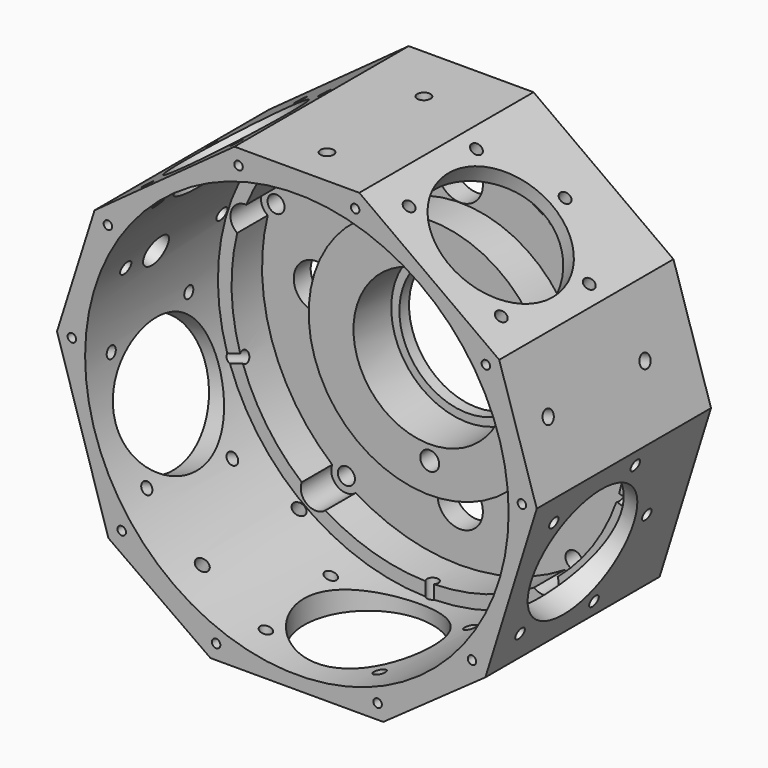
from build123d import *

# Parameters (mm, degrees)
F1_DEPTH  = 47.2948
F2_R      = 44.45
F3_DEPTH  = 34.8488
F4_R      = 25.4
F5_DEPTH  = 8.001
F6_R      = 1.7907
F7_DEPTH  = 25.4
F8_R      = 15.997555
F9_DEPTH  = 9.906
F10_R     = 14.2875
F11_DEPTH = 25.4
F13_DEPTH = 25.4
F14_R     = 4.7625
F15_DEPTH = 25.4
F16_R     = 13.5001
F16_R_2   = 1.190625
F17_DEPTH = 13.37323
F18_R     = 13.5001
F18_R_2   = 1.190625
F19_DEPTH = 7.62
F20_R     = 13.5001
F20_R_2   = 1.190625
F21_DEPTH = 7.62
F22_R     = 13.5001
F22_R_2   = 1.190625
F23_DEPTH = 7.62
F24_R     = 13.5001
F24_R_2   = 1.190625
F25_DEPTH = 7.62
F26_R     = 1.3890625
F26_R_2   = 3.175
F27_DEPTH = 7.62
F28_R     = 1.3890625
F29_DEPTH = 7.62
F30_R     = 1.3890625
F31_DEPTH = 7.62
F32_R     = 1.3890625
F33_DEPTH = 7.62
F34_R     = 1.3890625
F35_DEPTH = 7.62
F37_R     = 57.8679272596
F37_R_2   = 45.72
F38_DEPTH = 1.5748
F36_R     = 0.889
F39_DEPTH = 6.35


with BuildPart() as f1:
    # F0 (on Front) → F1 (new body)
    with BuildSketch(Plane.XZ):
        Polygon((13.1013757639, 48.895), (0, 48.895), (-13.1013757639, 48.895), (-42.4725074364, 27.5819688313), (-50.3486892657, 2.6386629942), (-39.5660388124, -32.039946487), (-18.1352724712, -47.244), (0, -47.244), (18.1352724712, -47.244), (39.5660388124, -32.039946487), (50.3486892657, 2.6386629942), (42.4725074364, 27.5819688313), align=None)
    extrude(amount=F1_DEPTH)

    # F2 (on face) → F3 (cut)
    with BuildSketch(Plane.XZ.offset(47.2948)):
        Circle(F2_R)
    extrude(amount=-F3_DEPTH, mode=Mode.SUBTRACT)

    # F4 (on face) → F5 (cut)
    with BuildSketch(Plane.XZ.offset(12.446)):
        with BuildLine():
            ThreePointArc((38.5032813183, 15.7300153839), (24.447458106, 33.6490393385), (3.0619653657, 41.4796386719))
            ThreePointArc((3.0619653657, 41.4796386719), (0, 43.815), (-3.0619653657, 41.4796386719))
            ThreePointArc((-3.0619653657, 41.4796386719), (-24.447458106, 33.6490393385), (-38.5032813183, 15.7300153839))
            ThreePointArc((-38.5032813183, 15.7300153839), (-41.6705412615, 13.5395796085), (-40.3956799866, 9.9058111564))
            ThreePointArc((-40.3956799866, 9.9058111564), (-39.556818154, -12.8527893385), (-26.8583018988, -31.7579545211))
            ThreePointArc((-26.8583018988, -31.7579545211), (-25.7538108292, -35.4470796085), (-21.9039378647, -35.3575106911))
            ThreePointArc((-21.9039378647, -35.3575106911), (0, -41.5925), (21.9039378647, -35.3575106911))
            ThreePointArc((21.9039378647, -35.3575106911), (25.7538108292, -35.4470796085), (26.8583018988, -31.7579545211))
            ThreePointArc((26.8583018988, -31.7579545211), (39.556818154, -12.8527893385), (40.3956799866, 9.9058111564))
            ThreePointArc((40.3956799866, 9.9058111564), (41.6705412615, 13.5395796085), (38.5032813183, 15.7300153839))
        make_face()
        Circle(F4_R, mode=Mode.SUBTRACT)
    extrude(amount=-F5_DEPTH, mode=Mode.SUBTRACT)

    # F6 (on face) → F7 (cut)
    with BuildSketch(Plane.XZ.offset(4.445)):
        with Locations((0, 40.64)):
            Circle(F6_R)
        with Locations((-38.6509368222, 12.5584506514)):
            Circle(F6_R)
        with Locations((-23.8875926532, -32.8784506514)):
            Circle(F6_R)
        with Locations((23.8875926532, -32.8784506514)):
            Circle(F6_R)
        with Locations((38.6509368222, 12.5584506514)):
            Circle(F6_R)
    extrude(amount=-F7_DEPTH, mode=Mode.SUBTRACT)

    # F8 (on face) → F9 (cut)
    with BuildSketch(Plane.XZ.offset(12.446)):
        Circle(F8_R)
    extrude(amount=-F9_DEPTH, mode=Mode.SUBTRACT)

    # F10 (on face) → F11 (cut)
    with BuildSketch(Plane.XZ.offset(2.54)):
        Circle(F10_R)
    extrude(amount=-F11_DEPTH, mode=Mode.SUBTRACT)

    # F12 (on face) → F13 (cut)
    with BuildSketch(Plane.XZ.offset(12.446)):
        with BuildLine():
            ThreePointArc((0, -17.065625), (-1.4031650189, -20.4531650189), (1.984375, -19.05))
            ThreePointArc((1.984375, -19.05), (1.4031650189, -17.6468349811), (0, -17.065625))
        make_face()
    extrude(amount=-F13_DEPTH, mode=Mode.SUBTRACT)

    # F14 (on face) → F15 (cut)
    with BuildSketch(Plane.XZ.offset(4.445)):
        with Locations((0, 30.1752)):
            Circle(F14_R)
        with Locations((-30.1752, 0)):
            Circle(F14_R)
        with Locations((0, -30.1752)):
            Circle(F14_R)
        with Locations((30.1752, 0)):
            Circle(F14_R)
    extrude(amount=-F15_DEPTH, mode=Mode.SUBTRACT)

    # F16 (on face) → F17 (cut)
    with BuildSketch(Plane(origin=(0, 0, -47.244), x_dir=(1, 0, 0), z_dir=(0, 0, -1))):
        with Locations((0, 28.5496)):
            Circle(F16_R)
        with Locations((-14.6280350953, 20.1041)):
            Circle(F16_R_2)
        with Locations((-11.943740641, 40.493340641)):
            Circle(F16_R_2)
        with Locations((14.6280350953, 20.1041)):
            Circle(F16_R_2)
        with Locations((11.943740641, 40.493340641)):
            Circle(F16_R_2)
        with Locations((0, 11.6586)):
            Circle(F16_R_2)
    extrude(amount=-F17_DEPTH, mode=Mode.SUBTRACT)

    # F18 (on face) → F19 (cut)
    with BuildSketch(Plane(origin=(-45.1620685452, 0, -14.0422815722), x_dir=(0, -1, 0), z_dir=(-0.9549055825, 0, -0.2969096301))):
        with Locations((28.5496, -0.6894505448)):
            Circle(F18_R)
        with Locations((40.493340641, 11.2542900962)):
            Circle(F18_R_2)
        with Locations((20.1041, 13.9385845505)):
            Circle(F18_R_2)
        with Locations((40.493340641, -12.6331911859)):
            Circle(F18_R_2)
        with Locations((20.1041, -15.3174856402)):
            Circle(F18_R_2)
        with Locations((11.6586, -0.6894505448)):
            Circle(F18_R_2)
    extrude(amount=-F19_DEPTH, mode=Mode.SUBTRACT)

    # F20 (on face) → F21 (cut)
    with BuildSketch(Plane(origin=(-27.7611612291, 0, 38.2571918273), x_dir=(0.8093620766, 0, 0.587309994), z_dir=(-0.587309994, 0, 0.8093620766))):
        with Locations((0, -28.5496)):
            Circle(F20_R)
        with Locations((14.6280350953, -20.1041)):
            Circle(F20_R_2)
        with Locations((11.943740641, -40.493340641)):
            Circle(F20_R_2)
        with Locations((-8.4455, -43.1776350953)):
            Circle(F20_R_2)
        with Locations((-14.6280350953, -20.1041)):
            Circle(F20_R_2)
        with Locations((0, -11.6586)):
            Circle(F20_R_2)
    extrude(amount=-F21_DEPTH, mode=Mode.SUBTRACT)

    # F22 (on face) → F23 (cut)
    with BuildSketch(Plane(origin=(45.1620685452, 0, -14.0422815722), x_dir=(0, 1, 0), z_dir=(0.9549055825, 0, -0.2969096301))):
        with Locations((-28.5496, -0.7030958177)):
            Circle(F22_R)
        with Locations((-40.493340641, -12.6468364587)):
            Circle(F22_R_2)
        with Locations((-20.1041, -15.331130913)):
            Circle(F22_R_2)
        with Locations((-40.493340641, 11.2406448233)):
            Circle(F22_R_2)
        with Locations((-20.1041, 13.9249392776)):
            Circle(F22_R_2)
        with Locations((-11.6586, -0.7030958177)):
            Circle(F22_R_2)
    extrude(amount=-F23_DEPTH, mode=Mode.SUBTRACT)

    # F24 (on face) → F25 (cut)
    with BuildSketch(Plane(origin=(27.7611612291, 0, 38.2571918273), x_dir=(0.8093620766, 0, -0.587309994), z_dir=(0.587309994, 0, 0.8093620766))):
        with Locations((0.0319808688, -28.5496)):
            Circle(F24_R)
        with Locations((11.9757215098, -40.493340641)):
            Circle(F24_R_2)
        with Locations((14.6600159641, -20.1041)):
            Circle(F24_R_2)
        with Locations((-11.9117597722, -40.493340641)):
            Circle(F24_R_2)
        with Locations((-14.5960542265, -20.1041)):
            Circle(F24_R_2)
        with Locations((0.0319808688, -11.6586)):
            Circle(F24_R_2)
    extrude(amount=-F25_DEPTH, mode=Mode.SUBTRACT)

    # F26 (on face) → F27 (cut)
    with BuildSketch(Plane(origin=(-46.5414023007, 0, 14.6960691379), x_dir=(0, -1, 0), z_dir=(-0.953589818, 0, 0.3011087162))):
        with Locations((13.9728007449, 0)):
            Circle(F26_R)
        with Locations((31.4452, 0.4320424526)):
            Circle(F26_R_2)
        with Locations((39.37, 0.4320424526)):
            Circle(F26_R)
    extrude(amount=-F27_DEPTH, mode=Mode.SUBTRACT)

    # F28 (on face) → F29 (cut)
    with BuildSketch(Plane.XY.offset(48.895)):
        with Locations((-0.0050242361, -13.97)):
            Circle(F28_R)
        with Locations((-0.0050242361, -39.37)):
            Circle(F28_R)
    extrude(amount=-F29_DEPTH, mode=Mode.SUBTRACT)

    # F30 (on face) → F31 (cut)
    with BuildSketch(Plane(origin=(46.5414023007, 0, 14.6960691379), x_dir=(0, 1, 0), z_dir=(0.953589818, 0, 0.3011087162))):
        with Locations((-13.97, 0.4367729795)):
            Circle(F30_R)
        with Locations((-39.37, 0.4367729795)):
            Circle(F30_R)
    extrude(amount=-F31_DEPTH, mode=Mode.SUBTRACT)

    # F32 (on face) → F33 (cut)
    with BuildSketch(Plane(origin=(28.3672821995, 0, -39.9849024494), x_dir=(0.8155947437, 0, 0.5786235513), z_dir=(0.5786235513, 0, -0.8155947437))):
        with Locations((0.5863418446, 13.97)):
            Circle(F32_R)
        with Locations((0.5863418446, 39.37)):
            Circle(F32_R)
    extrude(amount=-F33_DEPTH, mode=Mode.SUBTRACT)

    # F34 (on face) → F35 (cut)
    with BuildSketch(Plane(origin=(-28.3672821995, 0, -39.9849024494), x_dir=(0.8155947437, 0, -0.5786235513), z_dir=(-0.5786235513, 0, -0.8155947437))):
        with Locations((-0.5989856629, 13.97)):
            Circle(F34_R)
        with Locations((-0.5989856629, 39.37)):
            Circle(F34_R)
    extrude(amount=-F35_DEPTH, mode=Mode.SUBTRACT)

    # F37 (on face) → F38 (cut)
    with BuildSketch(Plane(origin=(0, 0, 0), x_dir=(-1, 0, 0), z_dir=(0, 1, 0))):
        Circle(F37_R)
        Polygon((-39.5660388124, -32.039946487), (-50.3486892657, 2.6386629942), (-42.4725074364, 27.5819688313), (-13.1013757639, 48.895), (13.1013757639, 48.895), (42.4725074364, 27.5819688313), (50.3486892657, 2.6386629942), (39.5660388124, -32.039946487), (18.1352724712, -47.244), (-18.1352724712, -47.244), align=None, mode=Mode.SUBTRACT)
        Polygon((-42.4725074364, 27.5819688313), (-50.3486892657, 2.6386629942), (-39.5660388124, -32.039946487), (-18.1352724712, -47.244), (18.1352724712, -47.244), (39.5660388124, -32.039946487), (50.3486892657, 2.6386629942), (42.4725074364, 27.5819688313), (13.1013757639, 48.895), (-13.1013757639, 48.895), align=None)
        Circle(F37_R_2, mode=Mode.SUBTRACT)
    extrude(amount=-F38_DEPTH, mode=Mode.SUBTRACT)

    # F36 (on face) → F39 (cut)
    with BuildSketch(Plane.XZ.offset(47.2948)):
        with Locations((-12.2407949743, 45.6832687692)):
            Circle(F36_R)
        with Locations((-39.6647567769, 25.7585942332)):
            Circle(F36_R)
        with Locations((-47.2299841203, 2.4752185833)):
            Circle(F36_R)
        with Locations((-36.7549628179, -29.7635820306)):
            Circle(F36_R)
        with Locations((-16.9489405002, -44.1534995551)):
            Circle(F36_R)
        with Locations((47.2299841203, 2.4752185833)):
            Circle(F36_R)
        with Locations((36.7549628179, -29.7635820306)):
            Circle(F36_R)
        with Locations((16.9489405002, -44.1534995551)):
            Circle(F36_R)
        with Locations((39.6647567769, 25.7585942332)):
            Circle(F36_R)
        with Locations((12.2407949743, 45.6832687692)):
            Circle(F36_R)
    extrude(amount=-F39_DEPTH, mode=Mode.SUBTRACT)


solid = f1.part
